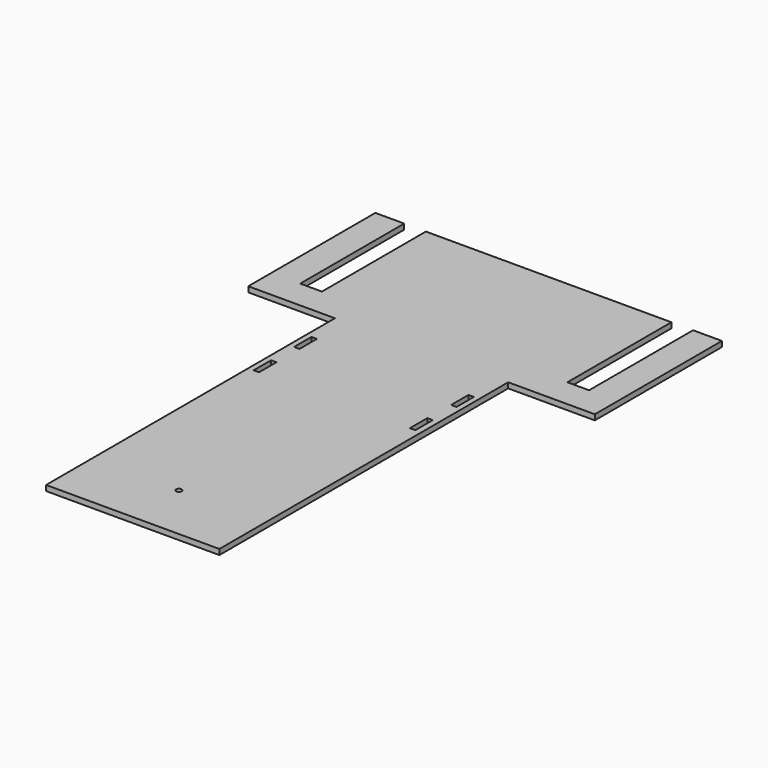
from build123d import *

# Parameters (mm, degrees)
F0_R     = 9.525
F0_W     = 19.05
F0_H     = 76.2
F0_W_2   = 19.048609
F1_DEPTH = 19.05


with BuildPart() as f1:
    # F0 (on Top) → F1 (new body)
    with BuildSketch(Plane.XY):
        Polygon((-287.56197, 204.938772), (-287.56197, -201.461228), (17.23803, -201.461228), (322.03803, -201.461228), (322.03803, 204.938772), (322.03803, 865.338772), (322.03803, 941.538772), (322.03803, 1068.538772), (626.83803, 1068.538772), (626.83803, 1627.338772), (525.23803, 1627.338772), (525.23803, 1170.138772), (449.03803, 1170.138772), (449.03803, 1627.338772), (-414.56197, 1627.338772), (-414.56197, 1170.138772), (-490.76197, 1170.138772), (-490.76197, 1627.338772), (-592.36197, 1627.338772), (-592.36197, 1068.538772), (-287.56197, 1068.538772), (-287.56197, 941.538772), (-287.56197, 865.338772), (-287.56197, 763.738772), (-287.56197, 687.538772), (-287.56197, 560.538772), align=None)
        with Locations((17.23803, 1.738772)):
            Circle(F0_R, mode=Mode.SUBTRACT)
        with Locations((-258.98697, 725.638772)):
            Rectangle(F0_W, F0_H, mode=Mode.SUBTRACT)
        with Locations((-258.98697, 903.438772)):
            Rectangle(F0_W, F0_H, mode=Mode.SUBTRACT)
        with Locations((291.380524, 724.869366)):
            Rectangle(F0_W, F0_H, mode=Mode.SUBTRACT)
        with Locations((293.463726, 903.438772)):
            Rectangle(F0_W_2, F0_H, mode=Mode.SUBTRACT)
    extrude(amount=F1_DEPTH)


solid = f1.part
